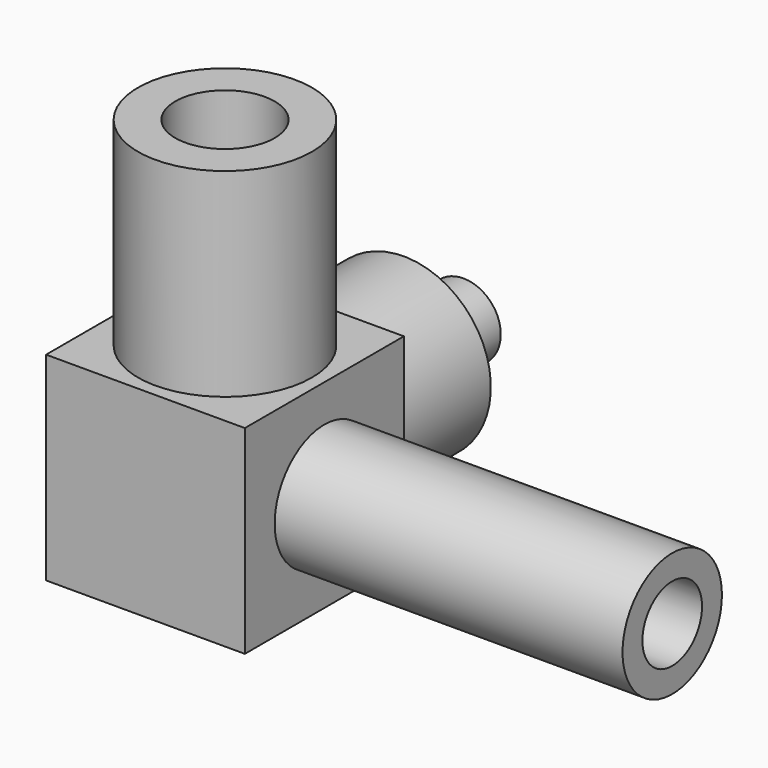
from build123d import *

# Parameters (mm, degrees)
F0_W      = 16
F0_H      = 16
F1_DEPTH  = 16
F2_R      = 7
F3_DEPTH  = 16
F4_R      = 4
F5_DEPTH  = 34
F6_R      = 3
F7_DEPTH  = 18
F6_R_2    = 5
F8_DEPTH  = 28
F9_R      = 3
F10_DEPTH = 16
F9_R_2    = 7
F11_DEPTH = 10


with BuildPart() as f1:
    # F0 (on Right) → F1 (new body)
    with BuildSketch(Plane.YZ):
        with Locations((8, 8)):
            Rectangle(F0_W, F0_H)
    extrude(amount=F1_DEPTH)

    # F2 (on face) → F3 (join)
    with BuildSketch(Plane.XY.offset(16)):
        with Locations((8, 8)):
            Circle(F2_R)
    extrude(amount=F3_DEPTH)

    # F4 (on face) → F5 (cut)
    with BuildSketch(Plane.XY.offset(32)):
        with Locations((8, 8)):
            Circle(F4_R)
    extrude(amount=-F5_DEPTH, mode=Mode.SUBTRACT)

    # F6 (on face) → F7 (cut)
    with BuildSketch(Plane.YZ.offset(16)):
        with Locations((8, 8)):
            Circle(F6_R)
    extrude(amount=-F7_DEPTH, mode=Mode.SUBTRACT)

    # F6 (on face) → F8 (join)
    with BuildSketch(Plane.YZ.offset(16)):
        with Locations((8, 8)):
            Circle(F6_R_2)
        with Locations((8, 8)):
            Circle(F6_R, mode=Mode.SUBTRACT)
    extrude(amount=F8_DEPTH)

    # F9 (on face) → F10 (join)
    with BuildSketch(Plane(origin=(0, 16, 0), x_dir=(-1, 0, 0), z_dir=(0, 1, 0))):
        with Locations((-8, 8)):
            Circle(F9_R)
    extrude(amount=F10_DEPTH)

    # F9 (on face) → F11 (join)
    with BuildSketch(Plane(origin=(0, 16, 0), x_dir=(-1, 0, 0), z_dir=(0, 1, 0))):
        with Locations((-8, 8)):
            Circle(F9_R_2)
        with Locations((-8, 8)):
            Circle(F9_R, mode=Mode.SUBTRACT)
    extrude(amount=F11_DEPTH)


solid = f1.part
